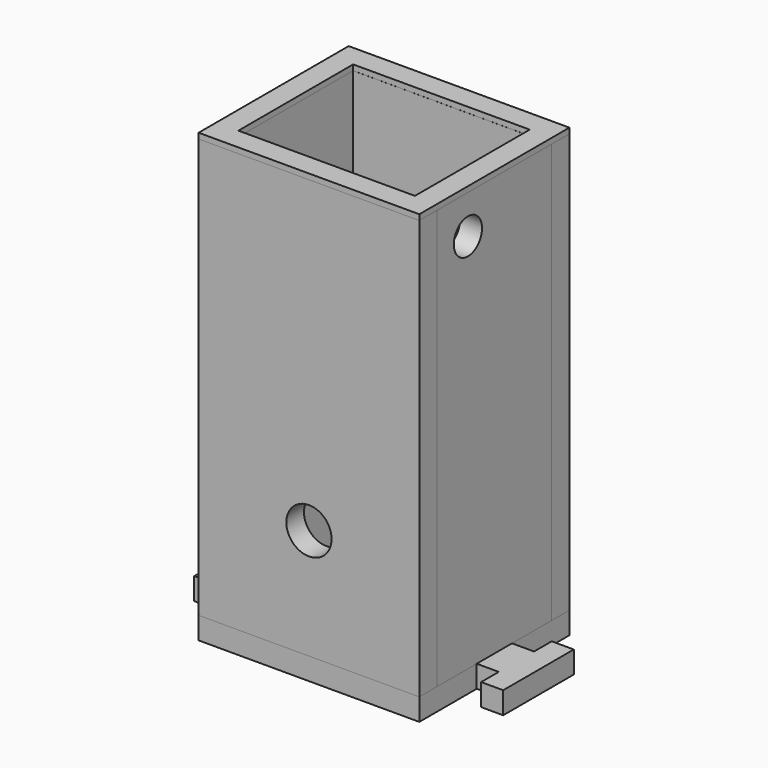
from build123d import *

# Parameters (mm, degrees)
F0_W     = 40
F0_H     = 76
F0_R     = 4.1
F1_DEPTH = 4
F3_START = 16
F2_W     = 26
F2_H     = 76
F2_R     = 3.2
F3_DEPTH = 4
F4_START = -16
F4_DEPTH = 4
F5_START = -26
F5_DEPTH = 4
F7_START = -20
F6_W     = 4
F6_H     = 8
F7_DEPTH = 4
F9_START = 56
F8_W     = 40
F8_H     = 34
F8_W_2   = 32
F8_H_2   = 26
F9_DEPTH = 1


with BuildPart() as f1:
    # F0 (on Front) → F1 (new body)
    with BuildSketch(Plane.XZ):
        with Locations((0, 18)):
            Rectangle(F0_W, F0_H)
        Circle(F0_R, mode=Mode.SUBTRACT)
    extrude(amount=F1_DEPTH)


with BuildPart() as f3:
    # F2 (on Right) → F3 (new body)
    with BuildSketch(Plane.YZ.offset(F3_START)):
        with Locations((13.01, 18)):
            Rectangle(F2_W, F2_H)
        with Locations((7.01, 49)):
            Circle(F2_R, mode=Mode.SUBTRACT)
    extrude(amount=F3_DEPTH)


with BuildPart() as f4:
    # F2 (on Right) → F4 (new body)
    with BuildSketch(Plane.YZ.offset(F4_START)):
        with Locations((13.01, 18)):
            Rectangle(F2_W, F2_H)
        with Locations((7.01, 49)):
            Circle(F2_R, mode=Mode.SUBTRACT)
        with Locations((7.01, 49)):
            Circle(F2_R)
    extrude(amount=-F4_DEPTH)


with BuildPart() as f5:
    # F0 (on Front) → F5 (new body)
    with BuildSketch(Plane.XZ.offset(F5_START)):
        with Locations((0, 18)):
            Rectangle(F0_W, F0_H)
        Circle(F0_R, mode=Mode.SUBTRACT)
    extrude(amount=-F5_DEPTH)


with BuildPart() as f7:
    # F6 (on Top) → F7 (new body)
    with BuildSketch(Plane.XY.offset(F7_START)):
        Polygon((-20, 9), (-20, -4), (20, -4), (20, 9), (20, 17), (20, 30), (-20, 30), (-20, 17), align=None)
        with Locations((-22, 13)):
            Rectangle(F6_W, F6_H)
        with Locations((22, 13)):
            Rectangle(F6_W, F6_H)
        Polygon((-24, 5), (-24, 9), (-24, 17), (-24, 21), (-28, 21), (-28, 5), align=None)
        Polygon((24, 17), (24, 9), (24, 5), (28, 5), (28, 21), (24, 21), align=None)
    extrude(amount=-F7_DEPTH)


with BuildPart() as f9:
    # F8 (on Top) → F9 (new body)
    with BuildSketch(Plane.XY.offset(F9_START)):
        with Locations((0, 13)):
            Rectangle(F8_W, F8_H)
        with Locations((0, 13.01)):
            Rectangle(F8_W_2, F8_H_2, mode=Mode.SUBTRACT)
    extrude(amount=F9_DEPTH)


solid = Compound([f1.part, f3.part, f4.part, f5.part, f7.part, f9.part])
